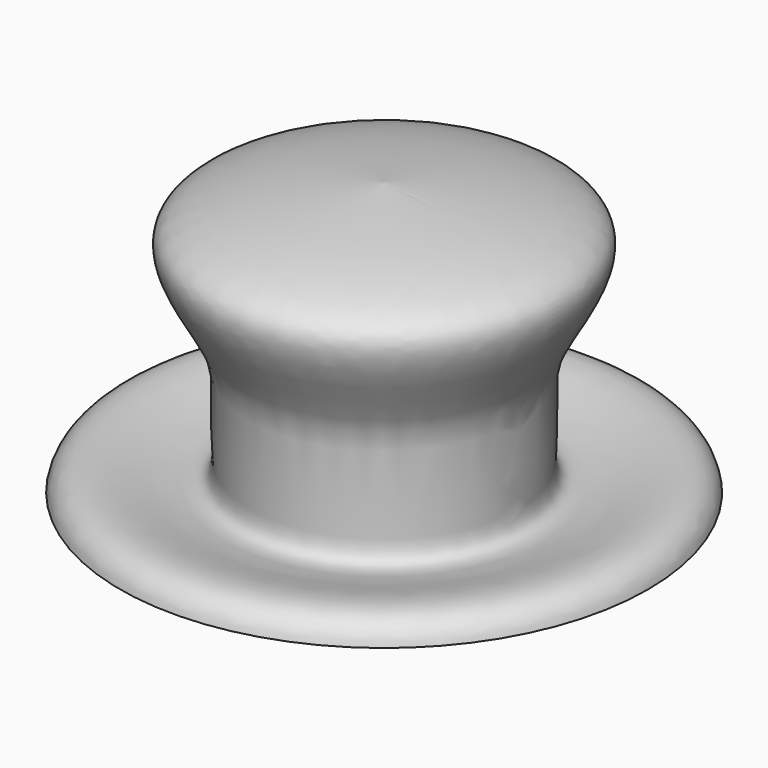
from build123d import *


with BuildPart() as f1:
    # F0 (on Front) → F1 (revolve)
    with BuildSketch(Plane.XZ):
        with BuildLine():
            add(Edge.make_bspline(
                [(0, 33.7820015848), (3.4086314853, 33.4627148785), (9.8941483998, 32.855216138), (17.5973828724, 31.4548644098), (24.2610361626, 28.8992314288), (22.3226515118, 22.2397696693), (16.5767939408, 14.3914892977), (17.9015392983, 6.6899382068), (16.2346434677, -2.8111642816), (29.0896765472, 2.7690029417), (33.2079896587, 1.0373920908), (33.9503740265, -0.8472622605), (34.0268434817, -1.3152115634)],
                knots=[0, 0, 0, 0, 0.0910626701, 0.1732626393, 0.2421699715, 0.3101648648, 0.3990553412, 0.4813915873, 0.5525243338, 0.6470388407, 0.7101848824, 0.7302765219, 0.7302765219, 0.7302765219, 0.7302765219], degree=3))
            Line((0, 33.7820015848), (0, 32.3075316846))
            add(Edge.make_bspline(
                [(0, 32.3075316846), (3.5606179445, 31.9137450285), (10.4805894452, 31.1484305577), (23.1778845852, 28.9498963689), (19.5143032146, 22.4680865981), (15.6961989727, 12.8011444218), (15.7378798162, 4.2680562549), (15.9476233217, -2.1988492231), (20.9236702437, -1.3438136207), (28.9375890675, 1.295124828), (31.4980507795, -0.7747782015), (31.8625269372, -1.3152115634)],
                knots=[0, 0, 0, 0, 0.1002646413, 0.1948618108, 0.2613103194, 0.3586375524, 0.4478466472, 0.5140370133, 0.5729858097, 0.664326637, 0.6933425642, 0.6933425642, 0.6933425642, 0.6933425642], degree=3))
            Line((31.8625269372, -1.3152115634), (34.0268434817, -1.3152115634))
        make_face()
    revolve(axis=Axis((0, 0, 17.4650524277), (0, 0, -1)))


solid = f1.part
